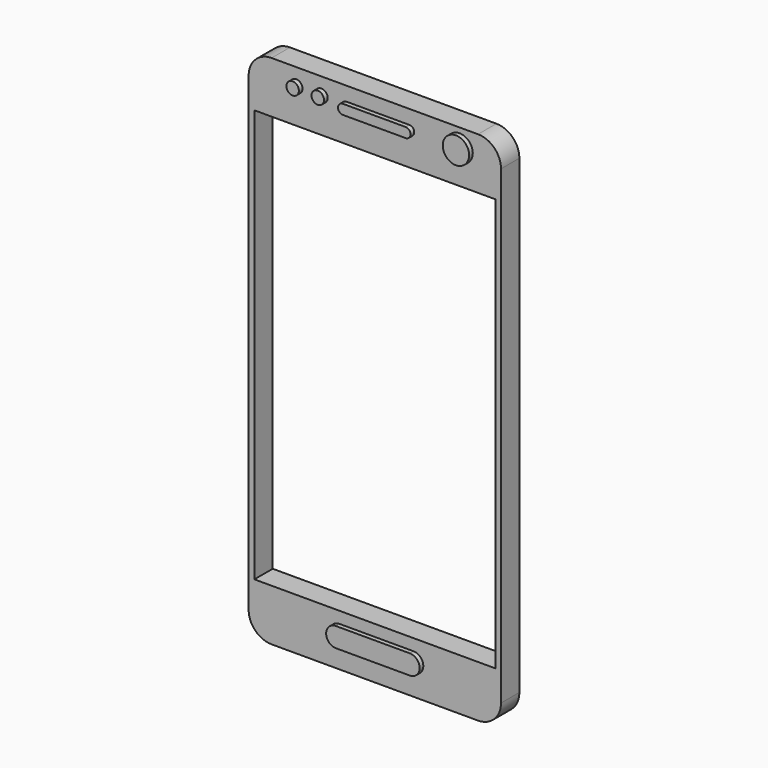
from build123d import *

# Parameters (mm, degrees)
F0_W     = 66.675
F0_H     = 114.3
F1_DEPTH = 6.35
F2_W     = 20.4757573083
F2_H     = 5.4086893797
F3_DEPTH = 7.62
F4_R     = 1.7303708669
F5_DEPTH = 7.62
F4_W     = 17.3850748688
F4_H     = 2.7043372393
F4_R_2   = 3.644682211


with BuildPart() as f1:
    # F0 (on Front) → F1 (new body)
    with BuildSketch(Plane.XZ):
        with BuildLine():
            Line((23.0744007826, 123.2224612594), (-34.0755992174, 123.2224612594))
            ThreePointArc((-34.0755992174, 123.2224612594), (-38.5657272779, 121.3625893199), (-40.4255992174, 116.8724612594))
            Line((-40.4255992174, 116.8724612594), (-40.4255992174, -13.3025387406))
            ThreePointArc((-40.4255992174, -13.3025387406), (-38.5657272779, -17.7926668012), (-34.0755992174, -19.6525387406))
            Line((-34.0755992174, -19.6525387406), (23.0744007826, -19.6525387406))
            ThreePointArc((23.0744007826, -19.6525387406), (27.5645288431, -17.7926668012), (29.4244007826, -13.3025387406))
            Line((29.4244007826, -13.3025387406), (29.4244007826, 116.8724612594))
            ThreePointArc((29.4244007826, 116.8724612594), (27.5645288431, 121.3625893199), (23.0744007826, 123.2224612594))
        make_face()
        with Locations((-5.5005992174, 51.7849612594)):
            Rectangle(F0_W, F0_H, mode=Mode.SUBTRACT)
    extrude(amount=F1_DEPTH)

    # F2 (on Front) → F3 (join)
    with BuildSketch(Plane.XZ):
        with Locations((-5.0223548897, -11.2589225173)):
            Rectangle(F2_W, F2_H)
        with BuildLine():
            Line((-15.2602335438, -13.9632672071), (-15.2602335438, -8.5545778275))
            ThreePointArc((-15.2602335438, -8.5545778275), (-17.9645782337, -11.2589225173), (-15.2602335438, -13.9632672071))
        make_face()
        with BuildLine():
            ThreePointArc((5.2155237645, -13.9632672071), (7.9198684543, -11.2589225173), (5.2155237645, -8.5545778275))
            Line((5.2155237645, -8.5545778275), (5.2155237645, -13.9632672071))
        make_face()
    extrude(amount=F3_DEPTH)


with BuildPart() as f5:
    # F4 (on Front) → F5 (new body)
    with BuildSketch(Plane.XZ):
        with Locations((-20.2825888991, 118.5496449471)):
            Circle(F4_R)
    extrude(amount=F5_DEPTH)


with BuildPart() as f5b:
    # F4 (on Front) → F5, piece 2 (new body)
    with BuildSketch(Plane.XZ):
        with Locations((-27.2366181016, 118.5496449471)):
            Circle(F4_R)
    extrude(amount=F5_DEPTH)


with BuildPart() as f5c:
    # F4 (on Front) → F5, piece 3 (new body)
    with BuildSketch(Plane.XZ):
        with Locations((-4.636021331, 117.9701462388)):
            Rectangle(F4_W, F4_H)
        with BuildLine():
            Line((-13.3285587654, 116.6179776192), (-13.3285587654, 119.3223148584))
            ThreePointArc((-13.3285587654, 119.3223148584), (-14.680727385, 117.9701462388), (-13.3285587654, 116.6179776192))
        make_face()
        with BuildLine():
            ThreePointArc((4.0565161034, 116.6179776192), (5.4086847231, 117.9701462388), (4.0565161034, 119.3223148584))
            Line((4.0565161034, 119.3223148584), (4.0565161034, 116.6179776192))
        make_face()
    extrude(amount=F5_DEPTH)


with BuildPart() as f5d:
    # F4 (on Front) → F5, piece 4 (new body)
    with BuildSketch(Plane.XZ):
        with Locations((17.9645773023, 118.1633174419)):
            Circle(F4_R_2)
    extrude(amount=F5_DEPTH)


solid = Compound([f1.part, f5.part, f5b.part, f5c.part, f5d.part])
